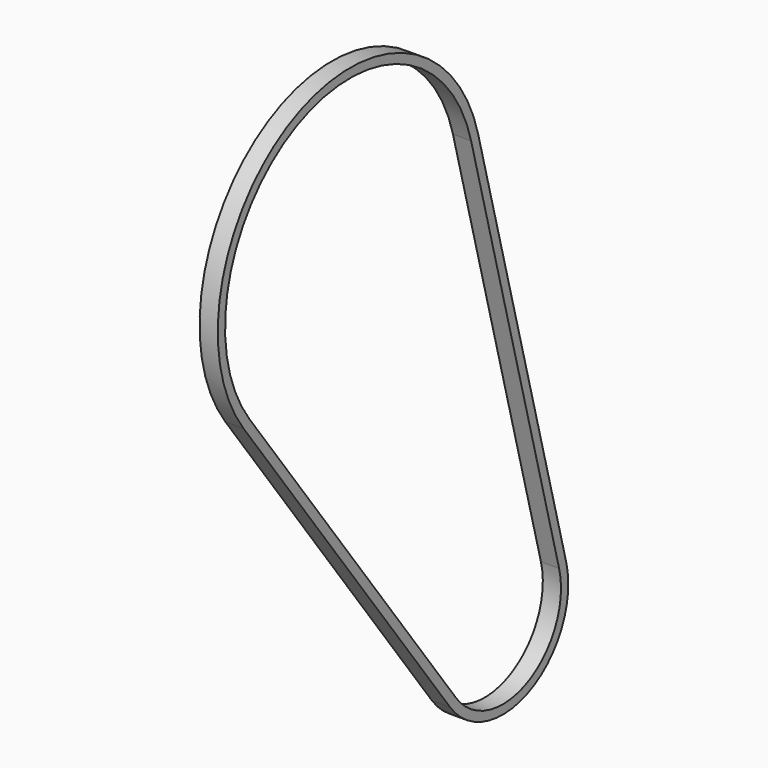
from build123d import *

# Parameters (mm, degrees)
F1_DEPTH = 6.35


with BuildPart() as f1:
    # F0 (on Right) → F1 (new body, symmetric)
    with BuildSketch(Plane.YZ):
        with BuildLine():
            Line((188.645288, -264.958613), (111.819359, 29.203694))
            ThreePointArc((111.819359, 29.203694), (-49.779418, 104.299734), (-93.032549, -68.566535))
            Line((-93.032549, -68.566535), (87.344893, -313.306528))
            ThreePointArc((87.344893, -313.306528), (157.966196, -330.976791), (188.645288, -264.958613))
        make_face()
        with BuildLine():
            ThreePointArc((-87.920871, -64.799143), (-47.044285, 98.568979), (105.675439, 27.599096))
            Line((105.675439, 27.599096), (182.501367, -266.563211))
            ThreePointArc((182.501367, -266.563211), (155.231063, -325.246037), (92.456572, -309.539136))
            Line((92.456572, -309.539136), (-87.920871, -64.799143))
        make_face(mode=Mode.SUBTRACT)
    extrude(amount=F1_DEPTH, both=True)


solid = f1.part
